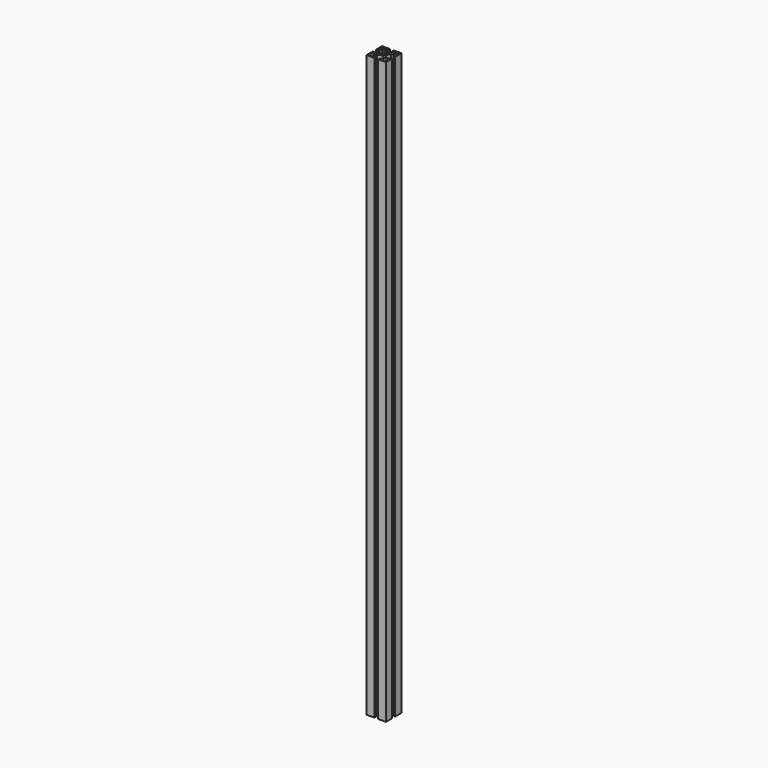
from build123d import *

# Parameters (mm, degrees)
F0_R     = 4
F0_R_2   = 3.25
F1_DEPTH = 1200


with BuildPart() as f1:
    # F0 (on Top) → F1 (new body)
    with BuildSketch(Plane.XY):
        with BuildLine():
            Line((15.640583, 4.190956), (-0.359417, 4.190956))
            Line((-0.359417, 4.190956), (-0.359417, -11.809044))
            Line((-0.359417, -11.809044), (3.640583, -11.809044))
            Line((3.640583, -11.809044), (3.640583, -8.809044))
            Line((3.640583, -8.809044), (10.640583, -8.809044))
            ThreePointArc((10.640583, -8.809044), (13.540078, -15.809044), (10.640583, -22.809044))
            Line((10.640583, -22.809044), (3.640583, -22.809044))
            Line((3.640583, -22.809044), (3.640583, -19.809044))
            Line((3.640583, -19.809044), (-0.359417, -19.809044))
            Line((-0.359417, -19.809044), (-0.359417, -35.809044))
            Line((-0.359417, -35.809044), (15.640583, -35.809044))
            Line((15.640583, -35.809044), (15.640583, -31.809044))
            Line((15.640583, -31.809044), (12.640583, -31.809044))
            Line((12.640583, -31.809044), (12.640583, -24.809044))
            ThreePointArc((12.640583, -24.809044), (19.640583, -21.909549), (26.640583, -24.809044))
            Line((26.640583, -24.809044), (26.640583, -31.809044))
            Line((26.640583, -31.809044), (23.640583, -31.809044))
            Line((23.640583, -31.809044), (23.640583, -35.809044))
            Line((23.640583, -35.809044), (39.640583, -35.809044))
            Line((39.640583, -35.809044), (39.640583, -19.809044))
            Line((39.640583, -19.809044), (35.640583, -19.809044))
            Line((35.640583, -19.809044), (35.640583, -22.809044))
            Line((35.640583, -22.809044), (28.640583, -22.809044))
            ThreePointArc((28.640583, -22.809044), (25.741088, -15.809044), (28.640583, -8.809044))
            Line((28.640583, -8.809044), (35.640583, -8.809044))
            Line((35.640583, -8.809044), (35.640583, -11.809044))
            Line((35.640583, -11.809044), (39.640583, -11.809044))
            Line((39.640583, -11.809044), (39.640583, 4.190956))
            Line((39.640583, 4.190956), (23.640583, 4.190956))
            Line((23.640583, 4.190956), (23.640583, 0.190956))
            Line((23.640583, 0.190956), (26.640583, 0.190956))
            Line((26.640583, 0.190956), (26.640583, -6.809044))
            ThreePointArc((26.640583, -6.809044), (19.640583, -9.708539), (12.640583, -6.809044))
            Line((12.640583, -6.809044), (12.640583, 0.190956))
            Line((12.640583, 0.190956), (15.640583, 0.190956))
            Line((15.640583, 0.190956), (15.640583, 4.190956))
        make_face()
        with Locations((5.650991, -29.798636)):
            Circle(F0_R, mode=Mode.SUBTRACT)
        with Locations((33.630175, -29.798636)):
            Circle(F0_R, mode=Mode.SUBTRACT)
        with Locations((5.650991, -1.819451)):
            Circle(F0_R, mode=Mode.SUBTRACT)
        with Locations((19.640583, -15.809044)):
            Circle(F0_R_2, mode=Mode.SUBTRACT)
        with Locations((33.630175, -1.819451)):
            Circle(F0_R, mode=Mode.SUBTRACT)
    extrude(amount=F1_DEPTH)


solid = f1.part
